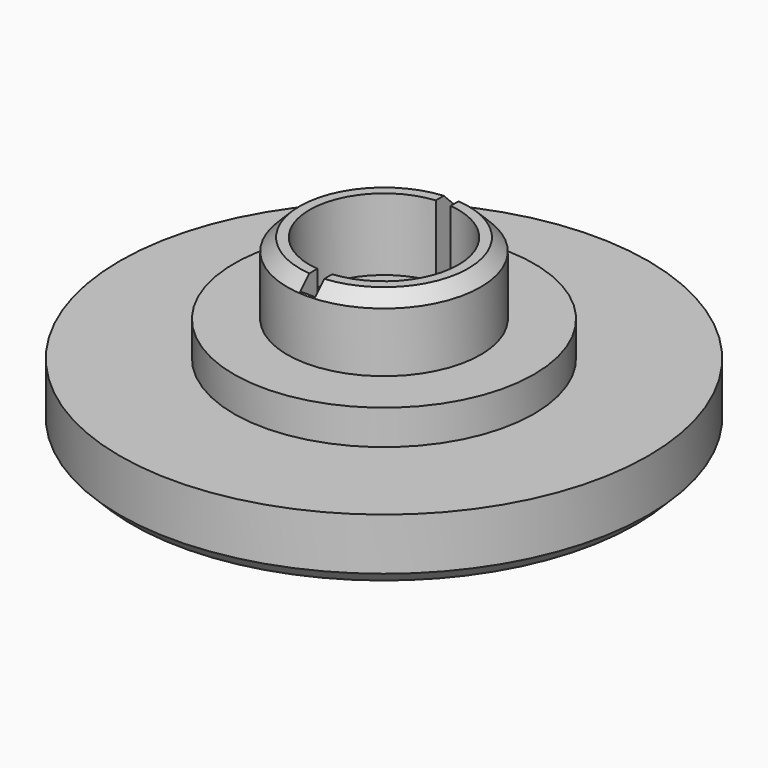
from build123d import *

# Parameters (mm, degrees)
F2_SIZE  = 0.5
F3_SIZE  = 0.5
F6_DEPTH = 2.9


with BuildPart() as f1:
    # F0 (on Front) → F1 (revolve)
    with BuildSketch(Plane.XZ):
        with BuildLine():
            add(Edge.make_bspline(
                [(1.5, 2.4199453937), (3.8369755758, 2.1967958582), (6.7693715651, 1.4854960684), (7.95, 0)],
                knots=[1.568331731, 1.568331731, 1.568331731, 1.568331731, 8.3338166527, 8.3338166527, 8.3338166527, 8.3338166527], degree=3))
            Line((7.95, 0), (10.65, 0))
            Line((10.65, 0), (10.65, 2.6))
            Line((10.65, 2.6), (6.05, 2.6))
            Line((6.05, 2.6), (6.05, 4))
            Line((6.05, 4), (3.9, 4))
            Line((3.9, 4), (3.9, 6.9))
            Line((3.9, 6.9), (0, 6.9))
            Line((0, 6.9), (0, 2.9199453937))
            Line((0, 2.9199453937), (1.5, 2.9199453937))
            Line((1.5, 2.9199453937), (1.5, 2.4199453937))
        make_face()
    revolve(axis=Axis((0, 0, 3.45), (0, 0, -1)))

    # F2
    f2_edges = [f1.edges().sort_by_distance(p)[0] for p in [
        (-3.9, 0, 6.9),
    ]]
    chamfer(f2_edges, length=F2_SIZE)

    # F3
    f3_edges = [f1.edges().sort_by_distance(p)[0] for p in [
        (-10.65, 0, 0),
    ]]
    chamfer(f3_edges, length=F3_SIZE)

    # F5 (on offset) → F6 (cut)
    with BuildSketch(Plane.XY.offset(6.9)):
        with BuildLine():
            ThreePointArc((0.3, -2.9849623113), (2.2248595461, -2.0124611797), (3, 0))
            ThreePointArc((3, 0), (2.2248595461, 2.0124611797), (0.3, 2.9849623113))
            Line((0.3, 2.9849623113), (0.3, 0))
            Line((0.3, 0), (0.3, -2.9849623113))
        make_face()
        with BuildLine():
            Line((0.3, 0), (0.3, 2.9849623113))
            ThreePointArc((0.3, 2.9849623113), (0, 3), (-0.3, 2.9849623113))
            Line((-0.3, 2.9849623113), (-0.3, 0))
            Line((-0.3, 0), (0, 0))
            Line((0, 0), (0.3, 0))
        make_face()
        with BuildLine():
            ThreePointArc((-0.3, 2.9849623113), (0, 3), (0.3, 2.9849623113))
            Line((0.3, 2.9849623113), (0.3, 4.0277631488))
            Line((0.3, 4.0277631488), (-0.3, 4.0277631488))
            Line((-0.3, 4.0277631488), (-0.3, 2.9849623113))
        make_face()
        with BuildLine():
            Line((0.3, -3.8517790381), (0.3, -2.9849623113))
            ThreePointArc((0.3, -2.9849623113), (0, -3), (-0.3, -2.9849623113))
            Line((-0.3, -2.9849623113), (-0.3, -3.8517790381))
            Line((-0.3, -3.8517790381), (0.3, -3.8517790381))
        make_face()
        with BuildLine():
            ThreePointArc((-0.3, -2.9849623113), (0, -3), (0.3, -2.9849623113))
            Line((0.3, -2.9849623113), (0.3, 0))
            Line((0.3, 0), (0, 0))
            Line((0, 0), (-0.3, 0))
            Line((-0.3, 0), (-0.3, -2.9849623113))
        make_face()
        with BuildLine():
            Line((-0.3, 0), (-0.3, 2.9849623113))
            ThreePointArc((-0.3, 2.9849623113), (-3, 0), (-0.3, -2.9849623113))
            Line((-0.3, -2.9849623113), (-0.3, 0))
        make_face()
    extrude(amount=-F6_DEPTH, mode=Mode.SUBTRACT)


solid = f1.part
